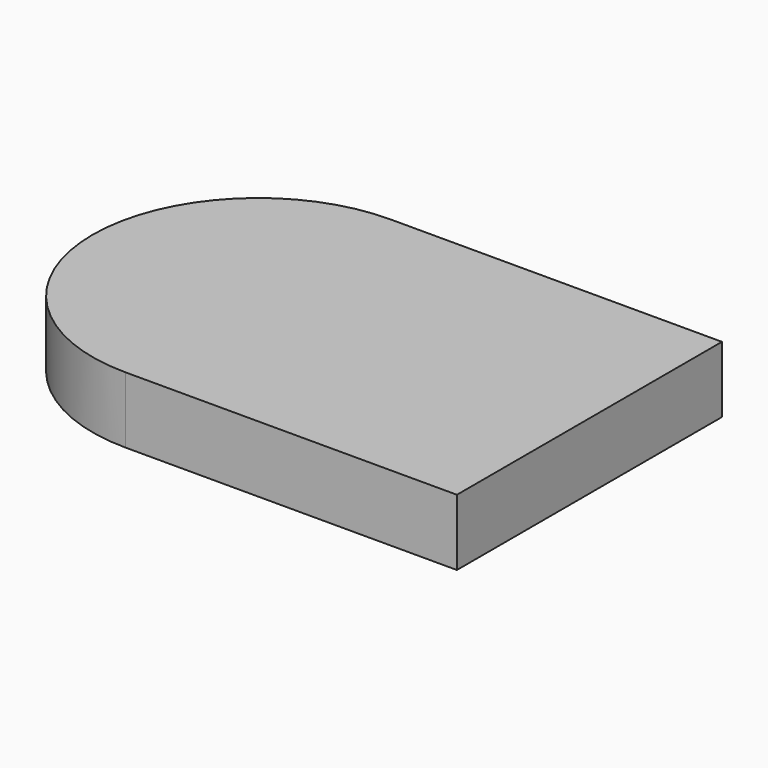
from build123d import *

# Parameters (mm, degrees)
F1_DEPTH = 20


with BuildPart() as f1:
    # F0 (on Top) → F1 (new body)
    with BuildSketch(Plane.XY):
        with BuildLine():
            Line((100, 50), (0, 50))
            ThreePointArc((0, 50), (-50, 0), (0, -50))
            Line((0, -50), (100, -50))
            Line((100, -50), (100, 0))
            Line((100, 0), (100, 50))
        make_face()
    extrude(amount=F1_DEPTH)


solid = f1.part
